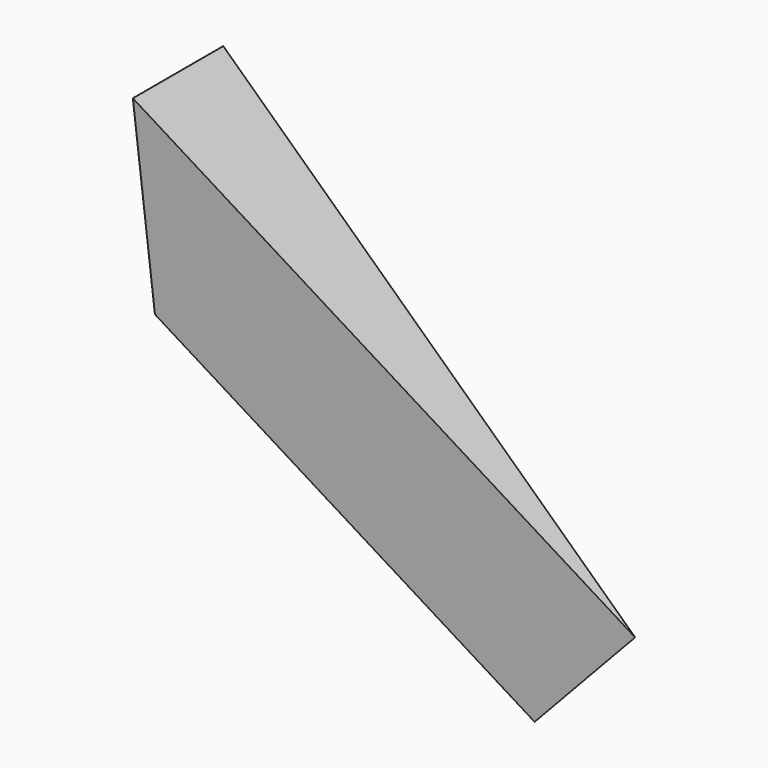
from build123d import *

# Parameters (mm, degrees)
F1_DEPTH = 12.7
F3_DEPTH = 40.464417


with BuildPart() as f1:
    # F0 (on Front) → F1 (new body)
    with BuildSketch(Plane.XZ):
        Polygon((46.299029, -43.4586), (0, 0), (0, -22.64378), (34.999793, -55.496348), align=None)
    extrude(amount=F1_DEPTH)

    # F2 (on face) → F3 (cut, through all)
    with BuildSketch(Plane(origin=(0, 0, 0), x_dir=(0.729119, 0, -0.684387), z_dir=(0.684387, 0, 0.729119))):
        Polygon((63.5, -12.7), (63.5, 0), (0, -12.7), align=None)
    extrude(amount=-F3_DEPTH, mode=Mode.SUBTRACT)


solid = f1.part
